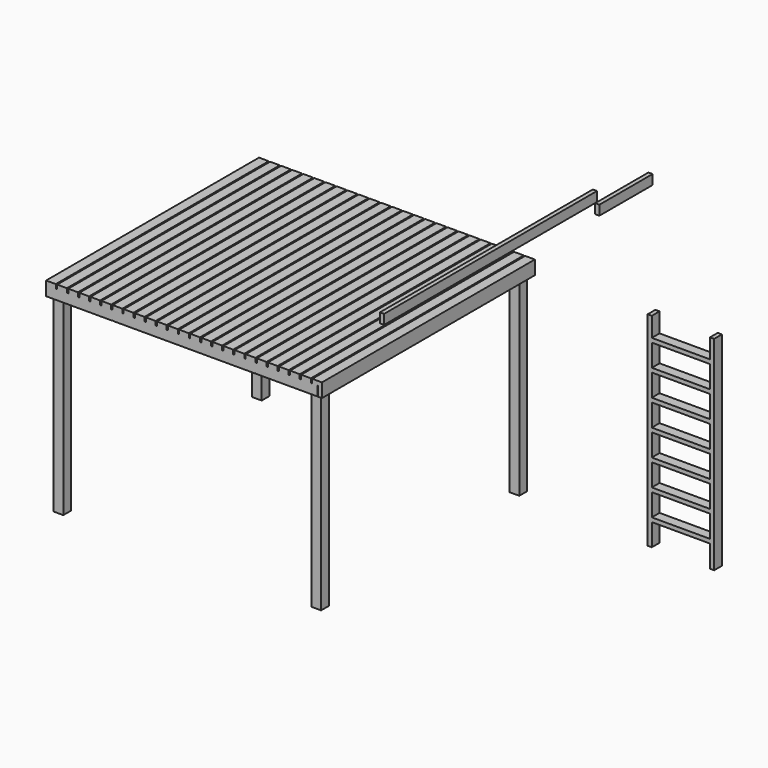
from build123d import *

# Parameters (mm, degrees)
F0_W      = 38.1
F0_H      = 88.9
F1_DEPTH  = 2438.4
F2_DEPTH  = 38.1
F5_DEPTH  = 88.9
F4_W      = 88.9
F4_H      = 88.9
F6_DEPTH  = 1828.8
F7_DEPTH  = 1828.8
F0_W_2    = 9.525
F0_H_2    = 508
F8_DEPTH  = 3.175
F0_W_3    = 88.9
F0_H_3    = 38.1
F9_DEPTH  = 2438.4
F0_W_4    = 533.4
F0_H_4    = 203.2
F10_DEPTH = 88.9
F11_DEPTH = 1828.8
F12_DEPTH = 609.6
F13_DEPTH = 2438.4
F16_D     = 6.35
F17_D     = 6.35
F18_D     = 6.35
F19_D     = 6.35


with BuildPart() as f1:
    # F0 (on Front) → F1 (new body)
    with BuildSketch(Plane.XZ):
        with Locations((1244.6, 560.0706811184)):
            Rectangle(F0_W, F0_H)
    extrude(amount=F1_DEPTH)



with BuildPart() as f1b:
    # F0 (on Front) → F1, piece 2 (new body)
    with BuildSketch(Plane.XZ):
        with Locations((-1244.6, 560.0706811184)):
            Rectangle(F0_W, F0_H)
    extrude(amount=F1_DEPTH)


with BuildPart() as f1_1:
    add(f1.part)

    add(f1b.part)  # F2 merges F1b
    # F0 (on Front) → F2 (join)
    with BuildSketch(Plane.XZ):
        Polygon((4.7625, 515.6206811184), (1225.55, 515.6206811184), (1225.55, 604.5206811184), (1174.75, 604.5206811184), (1162.05, 604.5206811184), (1073.15, 604.5206811184), (1060.45, 604.5206811184), (971.55, 604.5206811184), (958.85, 604.5206811184), (869.95, 604.5206811184), (857.25, 604.5206811184), (768.35, 604.5206811184), (755.65, 604.5206811184), (666.75, 604.5206811184), (654.05, 604.5206811184), (565.15, 604.5206811184), (552.45, 604.5206811184), (463.55, 604.5206811184), (450.85, 604.5206811184), (361.95, 604.5206811184), (349.25, 604.5206811184), (260.35, 604.5206811184), (247.65, 604.5206811184), (158.75, 604.5206811184), (146.05, 604.5206811184), (57.15, 604.5206811184), (44.45, 604.5206811184), (-44.45, 604.5206811184), (-57.15, 604.5206811184), (-146.05, 604.5206811184), (-158.75, 604.5206811184), (-247.65, 604.5206811184), (-260.35, 604.5206811184), (-349.25, 604.5206811184), (-361.95, 604.5206811184), (-450.85, 604.5206811184), (-463.55, 604.5206811184), (-552.45, 604.5206811184), (-565.15, 604.5206811184), (-654.05, 604.5206811184), (-666.75, 604.5206811184), (-755.65, 604.5206811184), (-768.35, 604.5206811184), (-857.25, 604.5206811184), (-869.95, 604.5206811184), (-958.85, 604.5206811184), (-971.55, 604.5206811184), (-1060.45, 604.5206811184), (-1073.15, 604.5206811184), (-1162.05, 604.5206811184), (-1174.75, 604.5206811184), (-1225.55, 604.5206811184), (-1225.55, 515.6206811184), (-4.7625, 515.6206811184), align=None)
    extrude(amount=F2_DEPTH)

    # F4 (on offset) → F5 (join)
    with BuildSketch(Plane.XY.offset(604.5206811184)):
        Polygon((-1136.65, -2400.3), (-1225.55, -2400.3), (-1226.2662094116, -2400.3), (-1226.2662094116, -2438.4), (1224.8337905884, -2438.4), (1224.8337905884, -2400.3), (1136.65, -2400.3), align=None)
    extrude(amount=-F5_DEPTH)

    # F4 (on offset) → F6 (join)
    with BuildSketch(Plane.XY.offset(604.5206811184)):
        with Locations((-1181.1, -2355.85)):
            Rectangle(F4_W, F4_H)
    extrude(amount=-F6_DEPTH)

    # F4 (on offset) → F7 (join)
    with BuildSketch(Plane.XY.offset(604.5206811184)):
        Polygon((1136.65, -2311.4), (1136.65, -2400.3), (1224.8337905884, -2400.3), (1225.55, -2400.3), (1225.55, -2311.4), align=None)
    extrude(amount=-F7_DEPTH)

    # F0 (on Front) → F8 (join)
    with BuildSketch(Plane.XZ):
        with Locations((0, 261.6206811184)):
            Rectangle(F0_W_2, F0_H_2)
    extrude(amount=F8_DEPTH)

    # F0 (on Front) → F9 (join)
    with BuildSketch(Plane.XZ):
        with Locations((203.2, 623.5706811184)):
            Rectangle(F0_W_3, F0_H_3)
        with Locations((101.6, 623.5706811184)):
            Rectangle(F0_W_3, F0_H_3)
        with Locations((-406.4, 623.5706811184)):
            Rectangle(F0_W_3, F0_H_3)
        with Locations((-1117.6, 623.5706811184)):
            Rectangle(F0_W_3, F0_H_3)
        with Locations((-914.4, 623.5706811184)):
            Rectangle(F0_W_3, F0_H_3)
        with Locations((1117.6, 623.5706811184)):
            Rectangle(F0_W_3, F0_H_3)
        with Locations((-1016, 623.5706811184)):
            Rectangle(F0_W_3, F0_H_3)
        with Locations((304.8, 623.5706811184)):
            Rectangle(F0_W_3, F0_H_3)
        with Locations((-609.6, 623.5706811184)):
            Rectangle(F0_W_3, F0_H_3)
        Polygon((-1263.65, 604.5206811184), (-1225.55, 604.5206811184), (-1174.75, 604.5206811184), (-1174.75, 642.6206811184), (-1263.65, 642.6206811184), align=None)
        with Locations((609.6, 623.5706811184)):
            Rectangle(F0_W_3, F0_H_3)
        with Locations((-508, 623.5706811184)):
            Rectangle(F0_W_3, F0_H_3)
        with Locations((406.4, 623.5706811184)):
            Rectangle(F0_W_3, F0_H_3)
        with Locations((508, 623.5706811184)):
            Rectangle(F0_W_3, F0_H_3)
        with Locations((-203.2, 623.5706811184)):
            Rectangle(F0_W_3, F0_H_3)
        with Locations((914.4, 623.5706811184)):
            Rectangle(F0_W_3, F0_H_3)
        with Locations((-812.8, 623.5706811184)):
            Rectangle(F0_W_3, F0_H_3)
        with Locations((711.2, 623.5706811184)):
            Rectangle(F0_W_3, F0_H_3)
        with Locations((812.8, 623.5706811184)):
            Rectangle(F0_W_3, F0_H_3)
        with Locations((1016, 623.5706811184)):
            Rectangle(F0_W_3, F0_H_3)
        with Locations((-711.2, 623.5706811184)):
            Rectangle(F0_W_3, F0_H_3)
        Polygon((1174.75, 604.5206811184), (1225.55, 604.5206811184), (1263.65, 604.5206811184), (1263.65, 642.6206811184), (1174.75, 642.6206811184), align=None)
        with Locations((0, 623.5706811184)):
            Rectangle(F0_W_3, F0_H_3)
        with Locations((-304.8, 623.5706811184)):
            Rectangle(F0_W_3, F0_H_3)
        with Locations((-101.6, 623.5706811184)):
            Rectangle(F0_W_3, F0_H_3)
    extrude(amount=F9_DEPTH)

    # F4 (on offset) → F11 (join)
    with BuildSketch(Plane.XY.offset(604.5206811184)):
        with Locations((-1181.5654485703, -82.8776954889)):
            Rectangle(F4_W, F4_H)
        with Locations((1179.1200191498, -83.5442542315)):
            Rectangle(F4_W, F4_H)
    extrude(amount=-F11_DEPTH)

    # F16 (through all)
    with Locations(Plane.YZ.offset(1289.05)):
        with Locations((-1828.8, 515.6206811184)):
            Hole(F16_D / 2)

    # F17 (through all)
    with Locations(Plane.YZ.offset(1289.05)):
        with Locations((-609.6, 515.6206811184)):
            Hole(F17_D / 2)

    # F18 (through all)
    with Locations(Plane(origin=(0, 0, 0), x_dir=(1, 0, 0), z_dir=(0, 1, 0))):
        with Locations((654.05, -515.6206811184)):
            Hole(F18_D / 2)

    # F19 (through all)
    with Locations(Plane(origin=(0, 0, 0), x_dir=(1, 0, 0), z_dir=(0, 1, 0))):
        with Locations((-654.05, -515.6206811184)):
            Hole(F19_D / 2)


with BuildPart() as f10:
    # F0 (on Front) → F10 (new body)
    with BuildSketch(Plane.XZ):
        Polygon((2939.552482605, -1270.7982063293), (2977.652482605, -1270.7982063293), (2977.652482605, 596.1017936707), (2939.552482605, 596.1017936707), (2939.552482605, 418.3017936707), (2406.152482605, 418.3017936707), (2406.152482605, 596.1017936707), (2368.052482605, 596.1017936707), (2368.052482605, -1270.7982063293), (2406.152482605, -1270.7982063293), (2406.152482605, -1067.5982063293), (2939.552482605, -1067.5982063293), align=None)
        with Locations((2672.852482605, -927.8982063293)):
            Rectangle(F0_W_4, F0_H_4, mode=Mode.SUBTRACT)
        with Locations((2672.852482605, -686.5982063293)):
            Rectangle(F0_W_4, F0_H_4, mode=Mode.SUBTRACT)
        with Locations((2672.852482605, -445.2982063293)):
            Rectangle(F0_W_4, F0_H_4, mode=Mode.SUBTRACT)
        with Locations((2672.852482605, -203.9982063293)):
            Rectangle(F0_W_4, F0_H_4, mode=Mode.SUBTRACT)
        with Locations((2672.852482605, 37.3017936707)):
            Rectangle(F0_W_4, F0_H_4, mode=Mode.SUBTRACT)
        with Locations((2672.852482605, 278.6017936707)):
            Rectangle(F0_W_4, F0_H_4, mode=Mode.SUBTRACT)
    extrude(amount=F10_DEPTH)


with BuildPart() as f12:
    # F0 (on Front) → F12 (new body)
    with BuildSketch(Plane.XZ):
        with Locations((2323.6066082001, 1638.68828125)):
            Rectangle(F0_W, F0_H)
    extrude(amount=F12_DEPTH)


with BuildPart() as f13:
    # F0 (on Front) → F13 (new body)
    with BuildSketch(Plane.XZ):
        with Locations((1814.1537883759, 1336.1260444641)):
            Rectangle(F0_W, F0_H)
    extrude(amount=F13_DEPTH)


solid = Compound([f1_1.part, f10.part, f12.part, f13.part])
